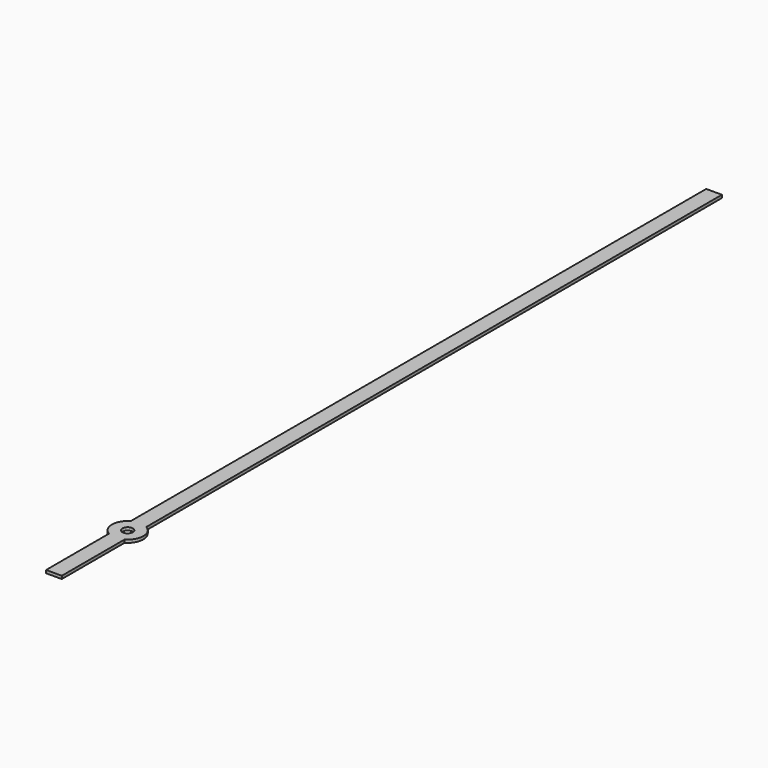
from build123d import *

# Parameters (mm, degrees)
F1_DEPTH = 0.07112
F2_R     = 0.127
F3_DEPTH = 25.4


with BuildPart() as f1:
    # F0 (on Top) → F1 (new body)
    with BuildSketch(Plane.XY):
        with BuildLine():
            Line((-0.1905, 17.779756), (-0.1905, 0.329956))
            ThreePointArc((-0.1905, 0.329956), (-0.381, 0), (-0.1905, -0.329956))
            Line((-0.1905, -0.329956), (-0.1905, -2.234956))
            Line((-0.1905, -2.234956), (0, -2.234956))
            Line((0, -2.234956), (0.1905, -2.234956))
            Line((0.1905, -2.234956), (0.1905, -0.329956))
            ThreePointArc((0.1905, -0.329956), (0.381, 0), (0.1905, 0.329956))
            Line((0.1905, 0.329956), (0.1905, 17.779756))
            Line((0.1905, 17.779756), (0, 17.779756))
            Line((0, 17.779756), (-0.1905, 17.779756))
        make_face()
    extrude(amount=F1_DEPTH)

    # F2 (on face) → F3 (cut)
    with BuildSketch(Plane.XY.offset(0.07112)):
        Circle(F2_R)
    extrude(amount=-F3_DEPTH, mode=Mode.SUBTRACT)


solid = f1.part
